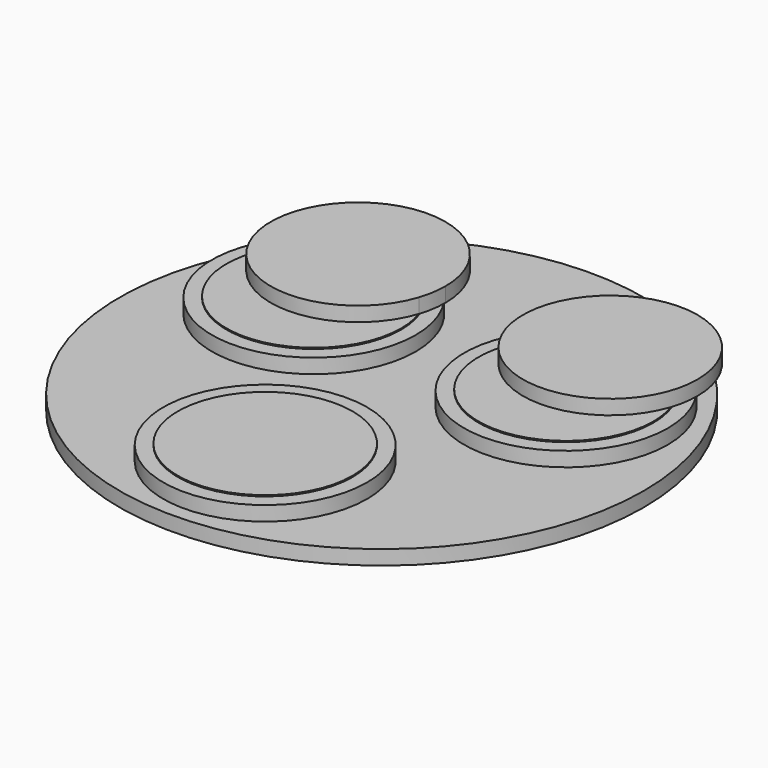
from build123d import *

# Parameters (mm, degrees)
F0_R     = 450
F1_DEPTH = 25
F2_R     = 175
F3_DEPTH = 25
F4_R     = 150
F5_DEPTH = 2
F6_R     = 150
F7_DEPTH = 25


with BuildPart() as f1:
    # F0 (on Top) → F1 (new body)
    with BuildSketch(Plane.XY):
        Circle(F0_R)
    extrude(amount=F1_DEPTH)

    # F2 (on face) → F3 (join)
    with BuildSketch(Plane.XY.offset(25)):
        with Locations((0, -250)):
            Circle(F2_R)
        with Locations((-216.506351, 125)):
            Circle(F2_R)
        with Locations((216.506351, 125)):
            Circle(F2_R)
    extrude(amount=F3_DEPTH)

    # F4 (on face) → F5 (join)
    with BuildSketch(Plane.XY.offset(50)):
        with Locations((-216.506351, 125)):
            Circle(F4_R)
        with Locations((216.506351, 125)):
            Circle(F4_R)
        with Locations((0, -250)):
            Circle(F4_R)
    extrude(amount=F5_DEPTH)

    # F6 (on face) → F7 (join)
    with BuildSketch(Plane.XY.offset(52)):
        with BuildLine():
            ThreePointArc((-74.225818, 172.5), (-68.448795, 195.938411), (-66.506351, 220))
            ThreePointArc((-66.506351, 220), (-240.567939, 368.057556), (-358.786884, 172.5))
            ThreePointArc((-358.786884, 172.5), (-216.506351, 275), (-74.225818, 172.5))
        make_face()
        with BuildLine():
            ThreePointArc((-74.225818, 172.5), (-216.506351, 275), (-358.786884, 172.5))
            ThreePointArc((-358.786884, 172.5), (-216.506351, 70), (-74.225818, 172.5))
        make_face()
        with Locations((216.508, 220)):
            Circle(F6_R)
    extrude(amount=F7_DEPTH)


solid = f1.part
